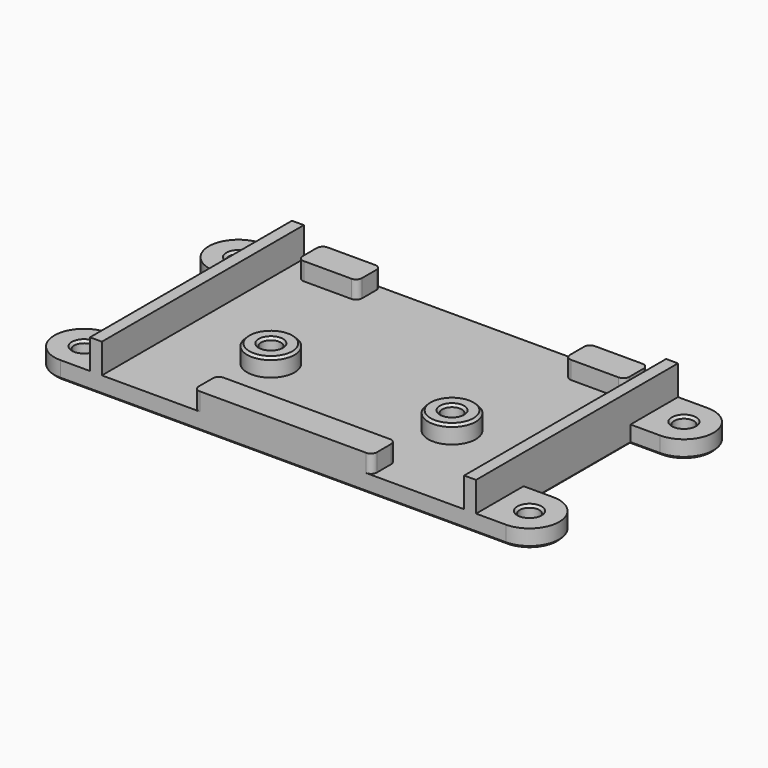
from build123d import *

# Parameters (mm, degrees)
SKETCH011_R     = 1.65
PAD006_DEPTH    = 3
SKETCH012_W     = 2
SKETCH012_H     = 42.5
PAD007_DEPTH    = 5
SKETCH013_R     = 4
SKETCH013_R_2   = 1.65
SKETCH013_W     = 10
SKETCH013_H     = 5
SKETCH013_W_2   = 30
PAD008_DEPTH    = 3
FILLET003_R     = 1
CHAMFER007_SIZE = 0.4


with BuildPart() as part:
    # Sketch011 → Pad006 (new body)
    with BuildSketch(Plane.XY):
        with BuildLine():
            ThreePointArc((-37.5, 21.25), (-42.5, 16.25), (-37.5, 11.25))
            Line((-37.5, 11.25), (-32.5, 11.25))
            Line((-32.5, 11.25), (-32.5, -11.25))
            Line((-32.5, -11.25), (-37.5, -11.25))
            ThreePointArc((-37.5, -11.25), (-42.5, -16.25), (-37.5, -21.25))
            Line((-37.5, -21.25), (37.5, -21.25))
            ThreePointArc((37.5, -21.25), (42.5, -16.25), (37.5, -11.25))
            Line((32.5, -11.25), (37.5, -11.25))
            Line((32.5, 11.25), (32.5, -11.25))
            Line((37.5, 11.25), (32.5, 11.25))
            ThreePointArc((37.5, 11.25), (42.5, 16.25), (37.5, 21.25))
            Line((-37.5, 21.25), (37.5, 21.25))
        make_face()
        with Locations((-15.25, -4.75)):
            Circle(SKETCH011_R, mode=Mode.SUBTRACT)
        with Locations((15.25, -4.75)):
            Circle(SKETCH011_R, mode=Mode.SUBTRACT)
        with Locations((-37.5, 16.25)):
            Circle(SKETCH011_R, mode=Mode.SUBTRACT)
        with Locations((-37.5, -16.25)):
            Circle(SKETCH011_R, mode=Mode.SUBTRACT)
        with Locations((37.5, 16.25)):
            Circle(SKETCH011_R, mode=Mode.SUBTRACT)
        with Locations((37.5, -16.25)):
            Circle(SKETCH011_R, mode=Mode.SUBTRACT)
    extrude(amount=PAD006_DEPTH)

    # Sketch012 (on Face20 of Pad006) → Pad007 (join)
    with BuildSketch(Plane.XY.offset(3)):
        with Locations((-31.5, 0)):
            Rectangle(SKETCH012_W, SKETCH012_H)
        with Locations((31.5, 0)):
            Rectangle(SKETCH012_W, SKETCH012_H)
    extrude(amount=PAD007_DEPTH)

    # Sketch013 (on Face10 of Pad007) → Pad008 (join)
    with BuildSketch(Plane.XY.offset(3)):
        with Locations((-15.25, -4.75)):
            Circle(SKETCH013_R)
        with Locations((-15.25, -4.75)):
            Circle(SKETCH013_R_2, mode=Mode.SUBTRACT)
        with Locations((15.25, -4.75)):
            Circle(SKETCH013_R)
        with Locations((15.25, -4.75)):
            Circle(SKETCH013_R_2, mode=Mode.SUBTRACT)
        with Locations((-22.5, 18.75)):
            Rectangle(SKETCH013_W, SKETCH013_H)
        with Locations((22.5, 18.75)):
            Rectangle(SKETCH013_W, SKETCH013_H)
        with Locations((0, -18.75)):
            Rectangle(SKETCH013_W_2, SKETCH013_H)
    extrude(amount=PAD008_DEPTH)

    # Fillet003
    fillet003_edges = [part.edges().sort_by_distance(p)[0] for p in [
        (-27.5, 21.25, 4.5),
        (-27.5, 16.25, 4.5),
        (-17.5, 16.25, 4.5),
        (-17.5, 21.25, 4.5),
        (17.5, 16.25, 4.5),
        (27.5, 16.25, 4.5),
        (27.5, 21.25, 4.5),
        (17.5, 21.25, 4.5),
        (-15, -16.25, 4.5),
        (-15, -21.25, 4.5),
        (15, -21.25, 4.5),
        (15, -16.25, 4.5),
    ]]
    fillet(fillet003_edges, radius=FILLET003_R)

    # Chamfer007
    chamfer007_edges = [part.edges().sort_by_distance(p)[0] for p in [
        (42.5, 16.25, 0),
        (0, 21.25, 0),
        (-42.5, 16.25, 0),
        (-35, 11.25, 0),
        (-32.5, 0, 0),
        (-35, -11.25, 0),
        (-42.5, -16.25, 0),
        (0, -21.25, 0),
        (42.5, -16.25, 0),
        (35, -11.25, 0),
        (32.5, 0, 0),
        (35, 11.25, 0),
        (13.6, -4.75, 0),
        (-16.9, -4.75, 0),
        (35.85, -16.25, 0),
        (35.85, 16.25, 0),
        (-39.15, -16.25, 0),
        (-39.15, 16.25, 0),
        (-39.15, 16.25, 3),
        (-39.15, -16.25, 3),
        (35.85, -16.25, 3),
        (35.85, 16.25, 3),
        (13.6, -4.75, 6),
        (-16.9, -4.75, 6),
        (-19.25, -4.75, 6),
        (11.25, -4.75, 6),
    ]]
    chamfer(chamfer007_edges, length=CHAMFER007_SIZE)


solid = part.part
